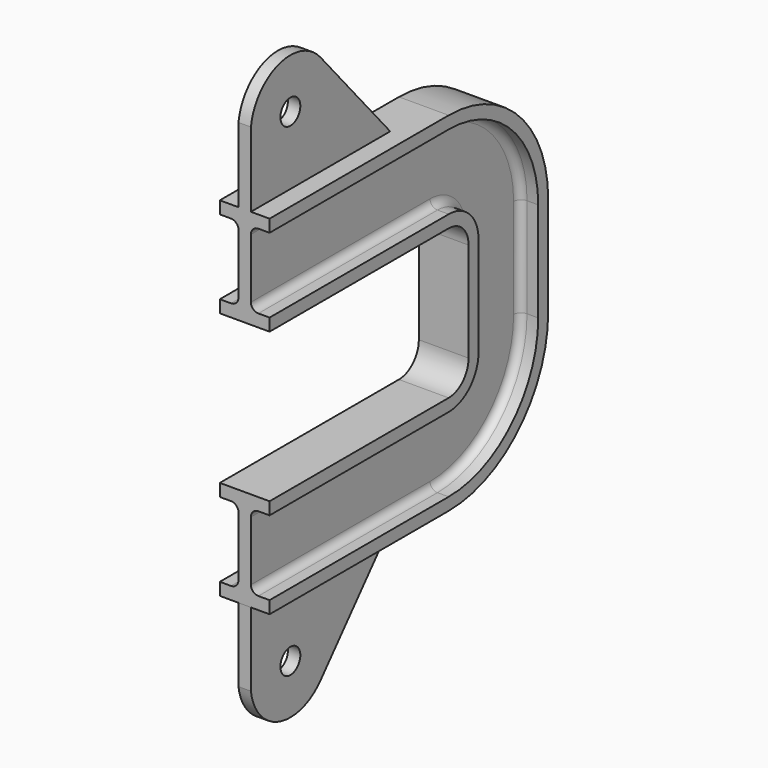
from build123d import *

# Parameters (mm, degrees)
F3_R     = 5
F4_DEPTH = 2.5


with BuildPart() as f2:
    # F2: sweep along a path in F1
    with BuildLine(Plane.YZ) as f2_path:
        Line((0, -20), (90, -20))
        ThreePointArc((90, -20), (97.0710678119, -22.9289321881), (100, -30))
        Line((100, -30), (100, -70))
        ThreePointArc((100, -70), (97.0710678119, -77.0710678119), (90, -80))
        Line((90, -80), (0, -80))
    # F0 (on Front) → F2 (sweep)
    with BuildSketch(Plane.XZ):
        with BuildLine():
            Line((10, 20), (0, 20))
            Line((0, 20), (-10, 20))
            Line((-10, 20), (-10, 15))
            Line((-10, 15), (-5.5, 15))
            ThreePointArc((-5.5, 15), (-3.3786796564, 14.1213203436), (-2.5, 12))
            Line((-2.5, 12), (-2.5, 0))
            Line((-2.5, 0), (-2.5, -12))
            ThreePointArc((-2.5, -12), (-3.3786796564, -14.1213203436), (-5.5, -15))
            Line((-5.5, -15), (-10, -15))
            Line((-10, -15), (-10, -20))
            Line((-10, -20), (0, -20))
            Line((0, -20), (10, -20))
            Line((10, -20), (10, -15))
            Line((10, -15), (5.5, -15))
            ThreePointArc((5.5, -15), (3.3786796564, -14.1213203436), (2.5, -12))
            Line((2.5, -12), (2.5, 0))
            Line((2.5, 0), (2.5, 12))
            ThreePointArc((2.5, 12), (3.3786796564, 14.1213203436), (5.5, 15))
            Line((5.5, 15), (10, 15))
            Line((10, 15), (10, 20))
        make_face()
    sweep(path=f2_path.line)

    # F3 (on Right) → F4 (join, symmetric)
    with BuildSketch(Plane.YZ):
        with BuildLine():
            Line((0, 50), (0, 20))
            Line((0, 20), (70, 20))
            Line((70, 20), (34.9418717867, 60.4643263237))
            ThreePointArc((34.9418717867, 60.4643263237), (14.0882810613, 66.5273280665), (0, 50))
        make_face()
        with Locations((19.8260649902, 47.3680526213)):
            Circle(F3_R, mode=Mode.SUBTRACT)
        with BuildLine():
            Line((70, -119.6458828449), (0, -119.6458828449))
            Line((0, -119.6458828449), (0, -149.6458828449))
            ThreePointArc((0, -149.6458828449), (14.0882810613, -166.1732109114), (34.9418717867, -160.1102091686))
            Line((34.9418717867, -160.1102091686), (70, -119.6458828449))
        make_face()
        with Locations((19.8260649902, -147.0139354662)):
            Circle(F3_R, mode=Mode.SUBTRACT)
    extrude(amount=F4_DEPTH, both=True)


solid = f2.part
